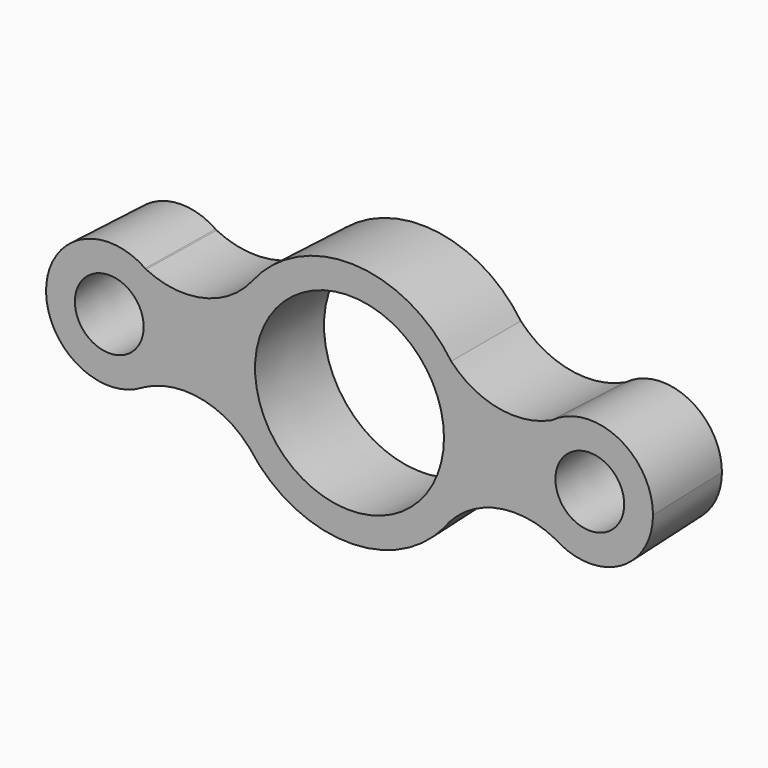
from build123d import *

# Parameters (mm, degrees)
F0_R     = 32.5
F0_R_2   = 12.5
F1_DEPTH = 30
F1_TAPER = -2


with BuildPart() as f1:
    # F0 (on Front) → F1 (new body)
    with BuildSketch(Plane.XZ):
        with BuildLine():
            ThreePointArc((32.3343684258, -23.5475820097), (38.0353436755, -12.3819478065), (40, 0))
            ThreePointArc((40, 0), (38.2198787691, 11.8000367319), (33.0379566562, 22.5497986683))
            ThreePointArc((33.0379566562, 22.5497986683), (1.1661116643, 39.9829986818), (-31.6675793733, 24.4369477766))
            ThreePointArc((-31.6675793733, 24.4369477766), (-39.9963358187, 0.5414065738), (-32.3174319402, -23.5708207917))
            ThreePointArc((-32.3174319402, -23.5708207917), (-1.456663619, -39.9734678393), (30.5161161112, -25.860523148))
            ThreePointArc((30.5161161112, -25.860523148), (31.3968717886, -24.6817499401), (32.3343684258, -23.5475820097))
        make_face()
        Circle(F0_R, mode=Mode.SUBTRACT)
        with BuildLine():
            ThreePointArc((33.0379566562, 22.5497986683), (38.2198787691, 11.8000367319), (40, 0))
            ThreePointArc((40, 0), (38.0353436755, -12.3819478065), (32.3343684258, -23.5475820097))
            ThreePointArc((32.3343684258, -23.5475820097), (49.4552682854, -13.7357595319), (68.9672779135, -16.6816978561))
            ThreePointArc((68.9672779135, -16.6816978561), (60.0094709193, -0.6154243022), (67.9620249007, 15.9714481344))
            ThreePointArc((67.9620249007, 15.9714481344), (67.7779633738, 15.8838182714), (67.5933106348, 15.7974411649))
            ThreePointArc((67.5933106348, 15.7974411649), (49.2208834194, 13.5712089719), (33.0379566562, 22.5497986683))
        make_face()
        with BuildLine():
            ThreePointArc((30.5161161112, -25.860523148), (31.4465145256, -24.7207751535), (32.3343684258, -23.5475820097))
            ThreePointArc((32.3343684258, -23.5475820097), (31.3968717886, -24.6817499401), (30.5161161112, -25.860523148))
        make_face()
        with BuildLine():
            ThreePointArc((-32.3174319402, -23.5708207917), (-39.9963358187, 0.5414065738), (-31.6675793733, 24.4369477766))
            ThreePointArc((-31.6675793733, 24.4369477766), (-48.5294234129, 13.8903643358), (-68.2824207604, 16.2079713957))
            ThreePointArc((-68.2824207604, 16.2079713957), (-62.1905701271, 9.1007806041), (-60, 0))
            ThreePointArc((-60, 0), (-62.5921869352, -9.8472353634), (-69.6968044302, -17.1418832411))
            ThreePointArc((-69.6968044302, -17.1418832411), (-69.5133809107, -17.0391683635), (-69.3292421248, -16.9377413401))
            ThreePointArc((-69.3292421248, -16.9377413401), (-69.1391317257, -16.8347792795), (-68.9482842493, -16.7331899565))
            ThreePointArc((-68.9482842493, -16.7331899565), (-49.801126442, -13.7103712001), (-32.8025151254, -23.0269316513))
            ThreePointArc((-32.8025151254, -23.0269316513), (-32.6471891343, -23.1982068294), (-32.493187805, -23.3706740457))
            ThreePointArc((-32.493187805, -23.3706740457), (-32.4050877401, -23.4705523564), (-32.3174319402, -23.5708207917))
        make_face()
        with BuildLine():
            ThreePointArc((67.9620249007, 15.9714481344), (60.0094709193, -0.6154243022), (68.9672779135, -16.6816978561))
            ThreePointArc((68.9672779135, -16.6816978561), (89.4695712223, -17.6161068589), (100, 0))
            ThreePointArc((100, 0), (88.9230179316, 17.8991550357), (67.9620249007, 15.9714481344))
        make_face()
        with Locations((80, 0)):
            Circle(F0_R_2, mode=Mode.SUBTRACT)
        with BuildLine():
            ThreePointArc((-68.6258744149, 16.4508135718), (-68.4545732079, 16.3287905255), (-68.2824207604, 16.2079713957))
            ThreePointArc((-68.2824207604, 16.2079713957), (-68.4535091474, 16.3302954349), (-68.6258744149, 16.4508135718))
        make_face()
        with BuildLine():
            ThreePointArc((-60, 0), (-62.1905701271, 9.1007806041), (-68.2824207604, 16.2079713957))
            ThreePointArc((-68.2824207604, 16.2079713957), (-68.4545732079, 16.3287905255), (-68.6258744149, 16.4508135718))
            ThreePointArc((-68.6258744149, 16.4508135718), (-99.9898444942, 0.6372731725), (-69.6968044302, -17.1418832411))
            ThreePointArc((-69.6968044302, -17.1418832411), (-62.5921869352, -9.8472353634), (-60, 0))
        make_face()
        with Locations((-80, 0)):
            Circle(F0_R_2, mode=Mode.SUBTRACT)
    extrude(amount=F1_DEPTH, taper=F1_TAPER)


solid = f1.part
